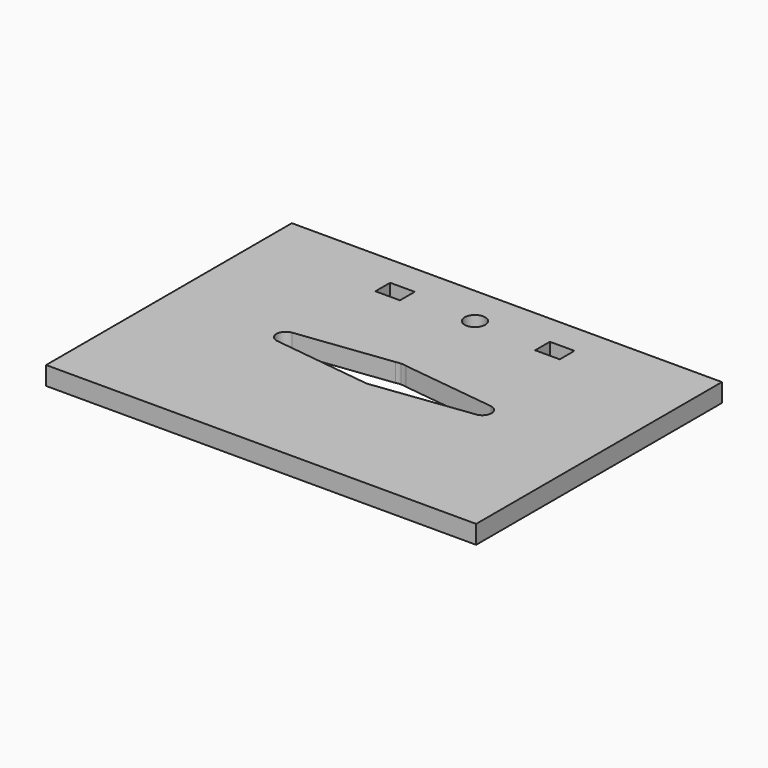
from build123d import *

# Parameters (mm, degrees)
F0_W     = 70
F0_H     = 50
F0_W_2   = 4
F0_H_2   = 3
F0_R     = 1.670188
F1_DEPTH = 3


with BuildPart() as f1:
    # F0 (on Top) → F1 (new body)
    with BuildSketch(Plane.XY):
        Rectangle(F0_W, F0_H)
        with BuildLine():
            Line((0, -3.527964), (-0.439802, -3.472258))
            Line((-0.439802, -3.472258), (-16.01121, -1.499958))
            ThreePointArc((-16.01121, -1.499958), (-17.49747, -0.08708), (-16.184995, 1.488549))
            Line((-16.184995, 1.488549), (-0.856719, 3.393528))
            ThreePointArc((-0.856719, 3.393528), (-0.431655, 3.47328), (0, 3.5))
            ThreePointArc((0, 3.5), (0.431655, 3.47328), (0.856719, 3.393528))
            Line((0.856719, 3.393528), (16.184995, 1.488549))
            ThreePointArc((16.184995, 1.488549), (17.49747, -0.08708), (16.01121, -1.499958))
            Line((16.01121, -1.499958), (0.439802, -3.472258))
            Line((0.439802, -3.472258), (0, -3.527964))
        make_face(mode=Mode.SUBTRACT)
        with Locations((-13, 18.5)):
            Rectangle(F0_W_2, F0_H_2, mode=Mode.SUBTRACT)
        with Locations((0, 18.5)):
            Circle(F0_R, mode=Mode.SUBTRACT)
        with Locations((13, 18.5)):
            Rectangle(F0_W_2, F0_H_2, mode=Mode.SUBTRACT)
    extrude(amount=F1_DEPTH)


solid = f1.part
